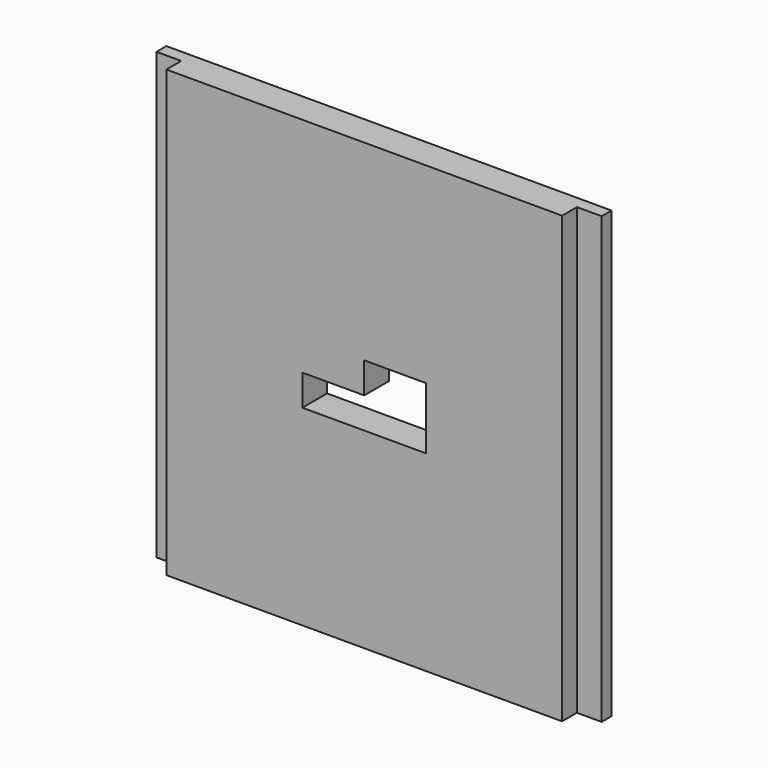
from build123d import *

# Parameters (mm, degrees)
SKETCH021_W                    = 32
SKETCH021_H                    = 36
EXTRUDE019_DEPTH               = 1.5
SKETCH020_W                    = 36
SKETCH020_H                    = 36
EXTRUDE018_DEPTH               = 1
FUSION011_PLACEMENT_ANGLE      = 90
BASEFEATURE002_PLACEMENT_ANGLE = 90
POCKET002_DEPTH                = 5
BODY003_PLACEMENT_ANGLE        = 90


with BuildPart() as extrude019:
    # Sketch021 (on Face6 of Extrude018) → Extrude019 (new body)
    with BuildSketch(Plane.XY.offset(1)):
        Rectangle(SKETCH021_W, SKETCH021_H)
    extrude(amount=EXTRUDE019_DEPTH)


with BuildPart() as body003:
    # Sketch020 → Extrude018 (new body)
    with BuildSketch(Plane.XY):
        Rectangle(SKETCH020_W, SKETCH020_H)
    extrude(amount=EXTRUDE018_DEPTH)

    # Fusion011: union Extrude019
    add(extrude019.part)


with BuildPart() as body003_1:
    # Fusion011 placement: moved
    add(body003.part.moved(Location((0, -17.5, 20))).rotate(Axis((0, -17.5, 20), (1, 0, 0)), FUSION011_PLACEMENT_ANGLE))


with BuildPart() as body003_2:
    # BaseFeature002 placement: moved
    add(body003_1.part.moved(Location((0, -20, -17.5))).rotate(Axis((0, -20, -17.5), (-1, 0, 0)), BASEFEATURE002_PLACEMENT_ANGLE))

    # Sketch026 (on Face8 of BaseFeature002) → Pocket002 (cut)
    with BuildSketch(Plane.XY.offset(2.5)):
        Polygon((0, 0), (0, 2.5), (5, 2.5), (5, -2.5), (-5, -2.5), (-5, 0), align=None)
    extrude(amount=-POCKET002_DEPTH, mode=Mode.SUBTRACT)


with BuildPart() as body003_3:
    # Body003 placement: moved
    add(body003_2.part.moved(Location((0, -17.5, 20))).rotate(Axis((0, -17.5, 20), (1, 0, 0)), BODY003_PLACEMENT_ANGLE))


solid = body003_3.part
